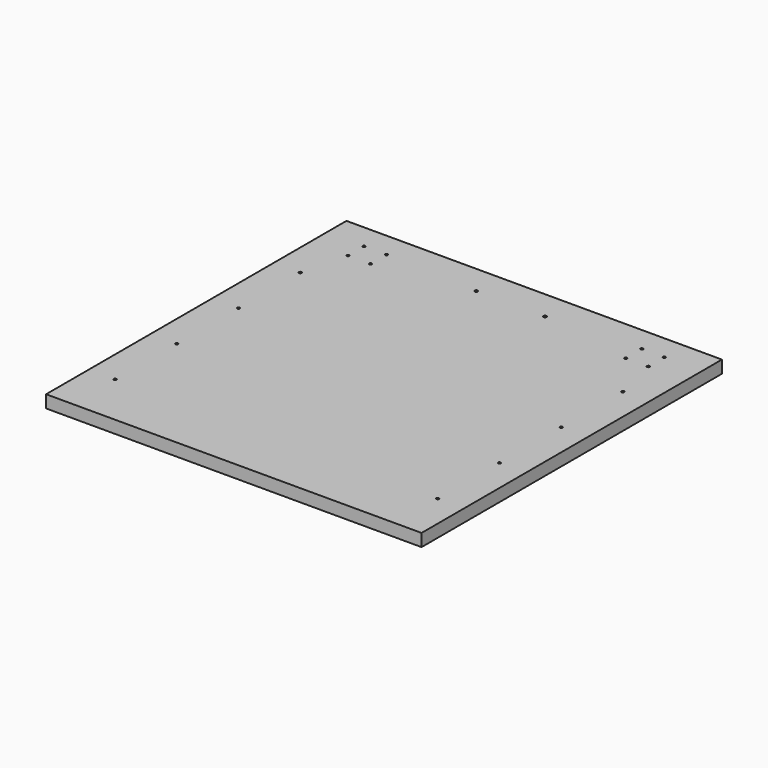
from build123d import *

# Parameters (mm, degrees)
F1_DEPTH = 20
F2_D     = 5
F3_D     = 4.2
F4_D     = 4.2


with BuildPart() as f1:
    # F0 (on Top) → F1 (new body)
    with BuildSketch(Plane.XY):
        Polygon((-122.8932932019, 557.9938352108), (-722.8932932019, 557.9938352108), (-722.8932932019, -42.0061647892), (-422.8932932019, -42.0061647892), (-122.8932932019, -42.0061647892), align=None)
        Polygon((-122.8932932019, 557.9938352108), (-722.8932932019, 557.9938352108), (-722.8932932019, -42.0061647892), (-422.8932932019, -42.0061647892), (-122.8932932019, -42.0061647892), align=None)
    extrude(amount=F1_DEPTH)

    # F2 (through all)
    with Locations(Plane(origin=(0, 0, 0), x_dir=(1, 0, 0), z_dir=(0, 0, -1))):
        with Locations((-477.8932932019, -510.9938352108), (-367.8932932019, -510.9938352108)):
            Hole(F2_D / 2)

    # F3 (through all)
    with Locations(Plane(origin=(0, 0, 0), x_dir=(1, 0, 0), z_dir=(0, 0, -1))):
        with Locations((-680.6432932019, -412.9938352108), (-680.6432932019, -289.6938352108), (-680.6432932019, -166.3938352108), (-680.6432932019, -43.0938352108), (-165.1432932019, -43.0969782174), (-165.1432932019, -166.3938352108), (-165.1432932019, -289.6938352108), (-165.1432932019, -412.9938352108)):
            Hole(F3_D / 2)

    # F4 (through all)
    with Locations(Plane(origin=(0, 0, 0), x_dir=(1, 0, 0), z_dir=(0, 0, -1))):
        with Locations((-626.8932932019, -485.9938352108), (-662.8932932019, -485.9938352108), (-662.8932932019, -517.9938352108), (-626.8932932019, -517.9938352108), (-218.8932932019, -517.9938352108), (-182.8932932019, -517.9938352108), (-182.8932932019, -485.9938352108), (-218.8932932019, -485.9938352108)):
            Hole(F4_D / 2)


solid = f1.part
